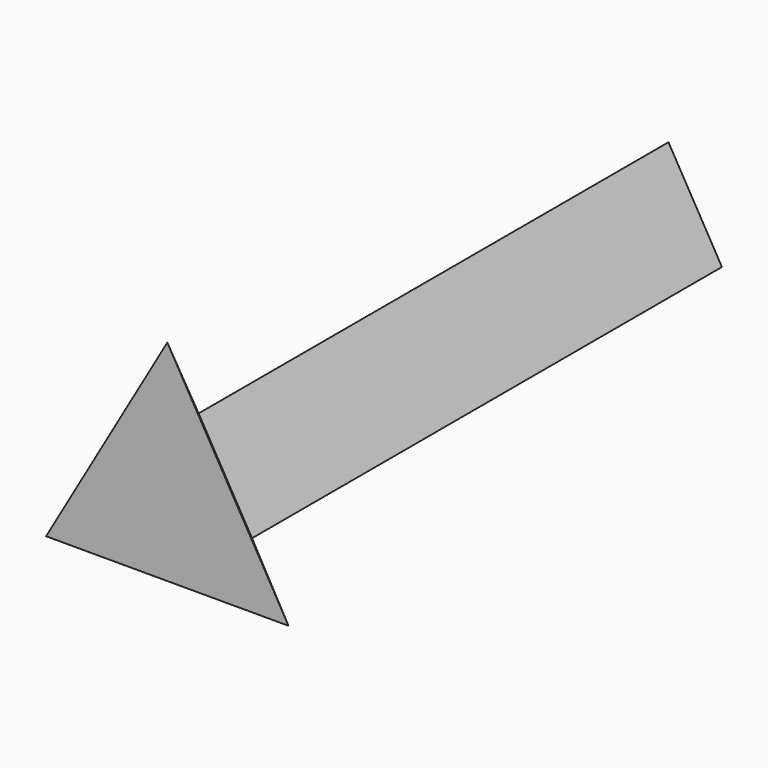
from build123d import *

# Parameters (mm, degrees)
F1_DEPTH = 150
F2_DEPTH = 10
F2_TAPER = -45


with BuildPart() as f1:
    # F0 (on Front) → F1 (new body)
    with BuildSketch(Plane.XZ):
        Polygon((13.6407520447, -7.875491865), (0, 15.75098373), (-13.6407520447, -7.875491865), align=None)
    extrude(amount=F1_DEPTH)


with BuildPart() as f2:
    # F1_face (on face) → F2 (new body)
    with BuildSketch(Plane.XZ.offset(150)):
        Polygon((-13.6407520447, -7.875491865), (13.6407520447, -7.875491865), (0, 15.75098373), align=None)
    extrude(amount=F2_DEPTH, taper=F2_TAPER)


solid = Compound([f1.part, f2.part])
